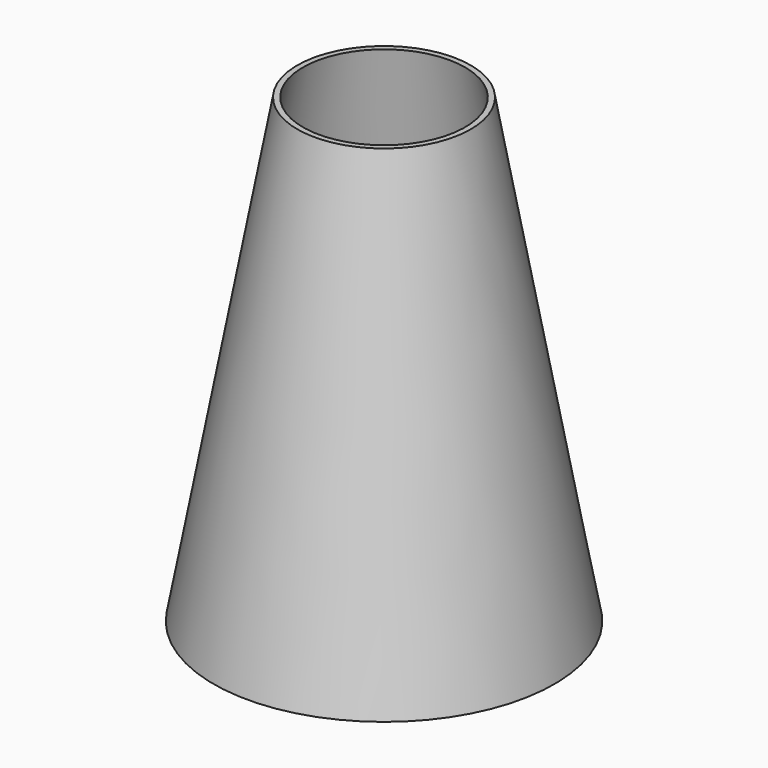
from build123d import *


with BuildPart() as f1:
    # F0 (on Right) → F1 (revolve)
    with BuildSketch(Plane.YZ):
        Polygon((17.865, -98.391269), (0, 0), (-1.2, 0), (16.665, -98.391269), align=None)
    revolve(axis=Axis((0, -18.5, -48.189562), (0, 0, -1)))


solid = f1.part
